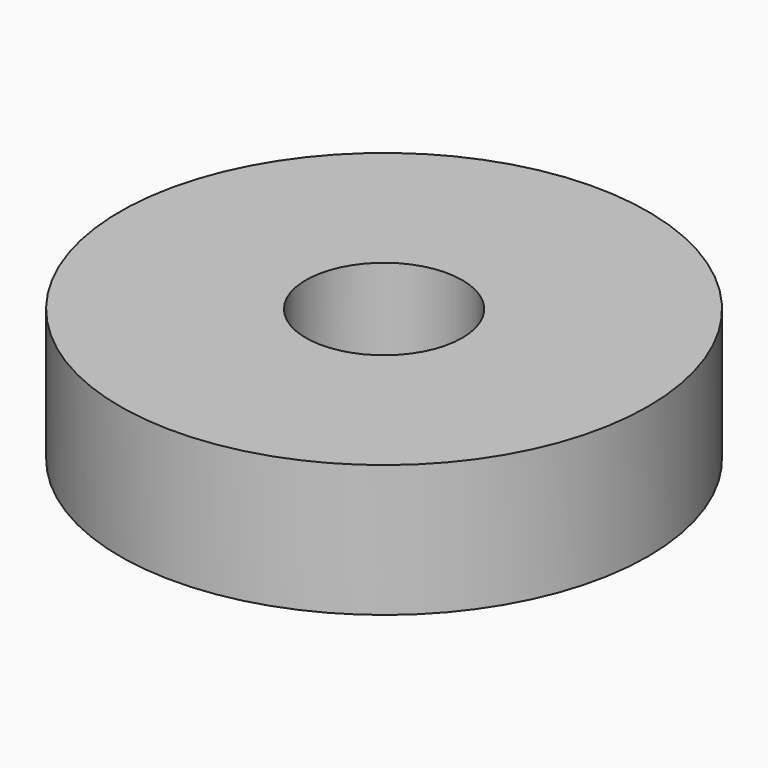
from build123d import *

# Parameters (mm, degrees)
SKETCH_R   = 14
SKETCH_R_2 = 4.15
PAD_DEPTH  = 7


with BuildPart() as part:
    # Sketch → Pad (new body)
    with BuildSketch(Plane.XY):
        with Locations((8.375712, 6.978494)):
            Circle(SKETCH_R)
        with Locations((8.375712, 6.978494)):
            Circle(SKETCH_R_2, mode=Mode.SUBTRACT)
    extrude(amount=PAD_DEPTH)


solid = part.part
